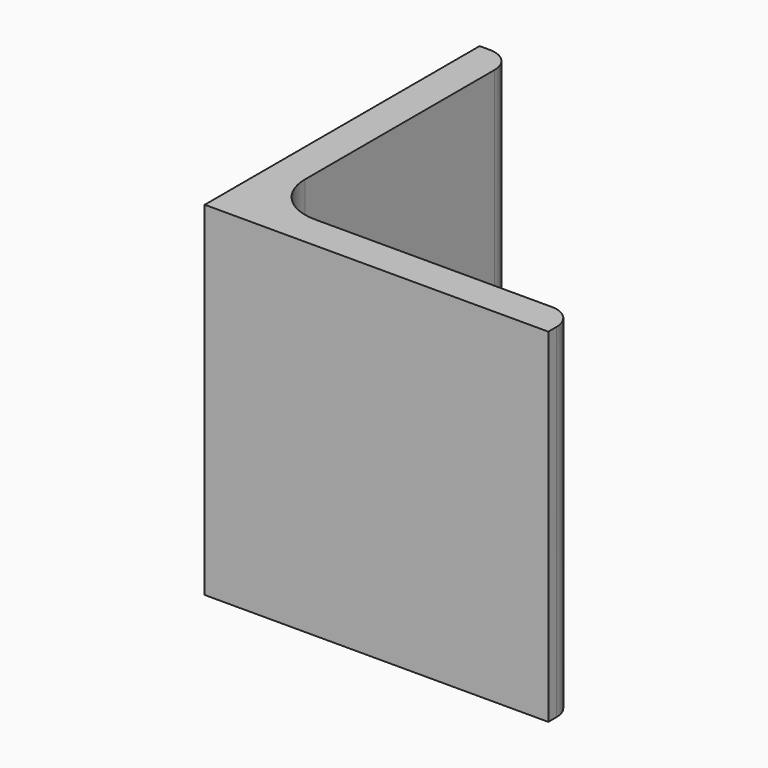
from build123d import *

# Parameters (mm, degrees)
EXTRUDE_DEPTH = 50


with BuildPart() as part:
    # Sketch → Extrude (new body)
    with BuildSketch(Plane.XY):
        with BuildLine():
            Line((0, 0), (50, 0))
            Line((50, 0), (50, 1.5))
            ThreePointArc((50, 1.5), (48.974874, 3.974874), (46.5, 5))
            Line((46.5, 5), (12, 5))
            ThreePointArc((5, 12), (7.050253, 7.050253), (12, 5))
            Line((5, 46.5), (5, 12))
            ThreePointArc((5, 46.5), (3.974874, 48.974874), (1.5, 50))
            Line((0, 50), (1.5, 50))
            Line((0, 0), (0, 50))
        make_face()
    extrude(amount=EXTRUDE_DEPTH)


solid = part.part
